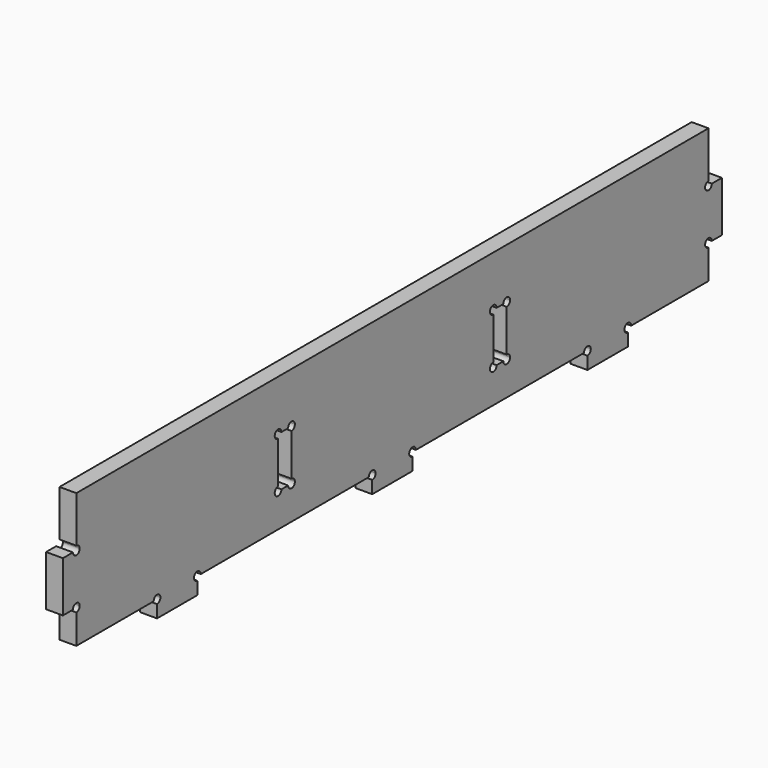
from build123d import *

# Parameters (mm, degrees)
F1_DEPTH = 6.35


with BuildPart() as f1:
    # F0 (on Right) → F1 (new body)
    with BuildSketch(Plane.YZ):
        with BuildLine():
            ThreePointArc((-141.971718, 29.874661), (-143.09425, 30.339629), (-143.559218, 31.462161))
            Line((-143.559218, 31.462161), (-148.321718, 31.462161))
            Line((-148.321718, 31.462161), (-148.321718, 12.412161))
            Line((-148.321718, 12.412161), (-143.559218, 12.412161))
            ThreePointArc((-143.559218, 12.412161), (-143.09425, 13.534693), (-141.971718, 13.999661))
            Line((-141.971718, 13.999661), (-141.971718, 29.874661))
        make_face()
        with BuildLine():
            Line((156.478282, 50.512161), (-141.971718, 50.512161))
            Line((-141.971718, 50.512161), (-141.971718, 33.049661))
            ThreePointArc((-141.971718, 33.049661), (-140.849186, 32.584693), (-140.384218, 31.462161))
            ThreePointArc((-140.384218, 31.462161), (-140.849186, 30.339629), (-141.971718, 29.874661))
            Line((-141.971718, 29.874661), (-141.971718, 13.999661))
            ThreePointArc((-141.971718, 13.999661), (-140.849186, 13.534693), (-140.384218, 12.412161))
            ThreePointArc((-140.384218, 12.412161), (-140.849186, 11.289629), (-141.971718, 10.824661))
            Line((-141.971718, 10.824661), (-141.971718, -0.287839))
            Line((-141.971718, -0.287839), (-105.459218, -0.287839))
            ThreePointArc((-105.459218, -0.287839), (-103.871718, 1.299661), (-102.284218, -0.287839))
            Line((-102.284218, -0.287839), (-86.409218, -0.287839))
            ThreePointArc((-86.409218, -0.287839), (-84.821718, 1.299661), (-83.234218, -0.287839))
            Line((-83.234218, -0.287839), (-3.859218, -0.287839))
            ThreePointArc((-3.859218, -0.287839), (-2.271718, 1.299661), (-0.684218, -0.287839))
            Line((-0.684218, -0.287839), (15.190782, -0.287839))
            ThreePointArc((15.190782, -0.287839), (16.778282, 1.299661), (18.365782, -0.287839))
            Line((18.365782, -0.287839), (97.740782, -0.287839))
            ThreePointArc((97.740782, -0.287839), (99.328282, 1.299661), (100.915782, -0.287839))
            Line((100.915782, -0.287839), (116.790782, -0.287839))
            ThreePointArc((116.790782, -0.287839), (118.378282, 1.299661), (119.965782, -0.287839))
            Line((119.965782, -0.287839), (156.478282, -0.287839))
            Line((156.478282, -0.287839), (156.478282, 10.824661))
            ThreePointArc((156.478282, 10.824661), (154.890782, 12.412161), (156.478282, 13.999661))
            Line((156.478282, 13.999661), (156.478282, 29.874661))
            ThreePointArc((156.478282, 29.874661), (154.890782, 31.462161), (156.478282, 33.049661))
            Line((156.478282, 33.049661), (156.478282, 50.512161))
        make_face()
        with BuildLine():
            ThreePointArc((-46.721718, 29.874661), (-47.84425, 32.584693), (-45.134218, 31.462161))
            Line((-45.134218, 31.462161), (-41.959218, 31.462161))
            ThreePointArc((-41.959218, 31.462161), (-40.371718, 33.049661), (-38.784218, 31.462161))
            ThreePointArc((-38.784218, 31.462161), (-39.249186, 30.339629), (-40.371718, 29.874661))
            Line((-40.371718, 29.874661), (-40.371718, 13.999661))
            ThreePointArc((-40.371718, 13.999661), (-39.249186, 13.534693), (-38.784218, 12.412161))
            ThreePointArc((-38.784218, 12.412161), (-40.371718, 10.824661), (-41.959218, 12.412161))
            Line((-41.959218, 12.412161), (-45.134218, 12.412161))
            ThreePointArc((-45.134218, 12.412161), (-47.84425, 11.289629), (-46.721718, 13.999661))
            Line((-46.721718, 13.999661), (-46.721718, 29.874661))
        make_face(mode=Mode.SUBTRACT)
        with BuildLine():
            ThreePointArc((54.878282, 29.874661), (53.75575, 32.584693), (56.465782, 31.462161))
            Line((56.465782, 31.462161), (59.640782, 31.462161))
            ThreePointArc((59.640782, 31.462161), (61.228282, 33.049661), (62.815782, 31.462161))
            ThreePointArc((62.815782, 31.462161), (62.350814, 30.339629), (61.228282, 29.874661))
            Line((61.228282, 29.874661), (61.228282, 13.999661))
            ThreePointArc((61.228282, 13.999661), (62.350814, 13.534693), (62.815782, 12.412161))
            ThreePointArc((62.815782, 12.412161), (61.228282, 10.824661), (59.640782, 12.412161))
            Line((59.640782, 12.412161), (56.465782, 12.412161))
            ThreePointArc((56.465782, 12.412161), (53.75575, 11.289629), (54.878282, 13.999661))
            Line((54.878282, 13.999661), (54.878282, 29.874661))
        make_face(mode=Mode.SUBTRACT)
        with BuildLine():
            Line((-86.409218, -0.287839), (-102.284218, -0.287839))
            ThreePointArc((-102.284218, -0.287839), (-102.749186, -1.410371), (-103.871718, -1.875339))
            Line((-103.871718, -1.875339), (-103.871718, -6.637839))
            Line((-103.871718, -6.637839), (-84.821718, -6.637839))
            Line((-84.821718, -6.637839), (-84.821718, -1.875339))
            ThreePointArc((-84.821718, -1.875339), (-85.94425, -1.410371), (-86.409218, -0.287839))
        make_face()
        with BuildLine():
            ThreePointArc((16.778282, -1.875339), (15.65575, -1.410371), (15.190782, -0.287839))
            Line((15.190782, -0.287839), (-0.684218, -0.287839))
            ThreePointArc((-0.684218, -0.287839), (-1.149186, -1.410371), (-2.271718, -1.875339))
            Line((-2.271718, -1.875339), (-2.271718, -6.637839))
            Line((-2.271718, -6.637839), (16.778282, -6.637839))
            Line((16.778282, -6.637839), (16.778282, -1.875339))
        make_face()
        with BuildLine():
            ThreePointArc((118.378282, -1.875339), (117.25575, -1.410371), (116.790782, -0.287839))
            Line((116.790782, -0.287839), (100.915782, -0.287839))
            ThreePointArc((100.915782, -0.287839), (100.450814, -1.410371), (99.328282, -1.875339))
            Line((99.328282, -1.875339), (99.328282, -6.637839))
            Line((99.328282, -6.637839), (118.378282, -6.637839))
            Line((118.378282, -6.637839), (118.378282, -1.875339))
        make_face()
        with BuildLine():
            Line((162.828282, 31.462161), (158.065782, 31.462161))
            ThreePointArc((158.065782, 31.462161), (157.600814, 30.339629), (156.478282, 29.874661))
            Line((156.478282, 29.874661), (156.478282, 13.999661))
            ThreePointArc((156.478282, 13.999661), (157.600814, 13.534693), (158.065782, 12.412161))
            Line((158.065782, 12.412161), (162.828282, 12.412161))
            Line((162.828282, 12.412161), (162.828282, 31.462161))
        make_face()
    extrude(amount=F1_DEPTH)


solid = f1.part
